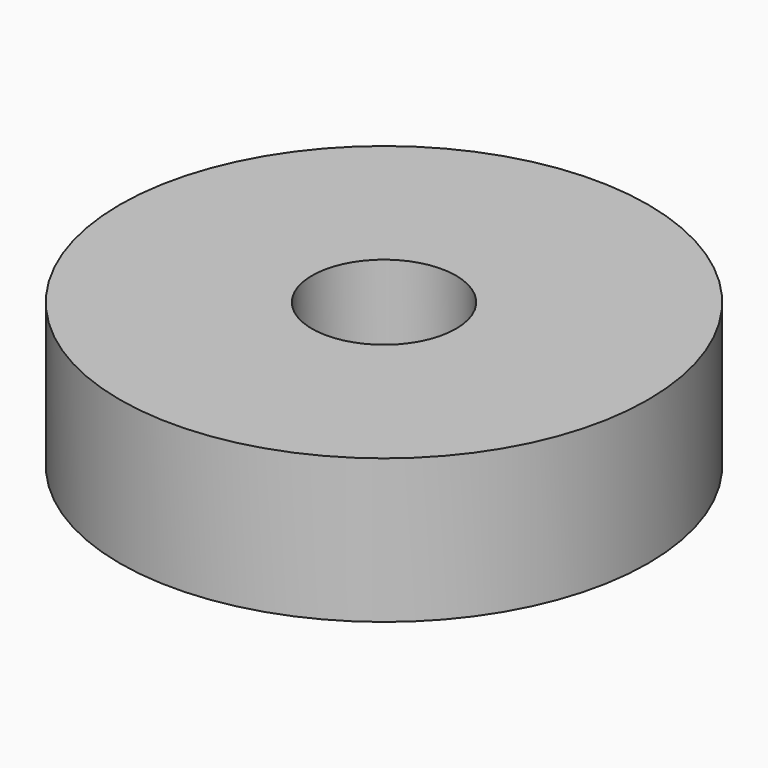
from build123d import *

# Parameters (mm, degrees)
F0_R      = 46.570843
F1_DEPTH  = 25.4
F2_R      = 13.732037
F3_DEPTH  = 25.4
F4_R      = 12.7
F5_DEPTH  = 25.4
F5_FACE_R = 12.7
F6_DEPTH  = 25.4
F7_R      = 12.7
F8_DEPTH  = 25.4


with BuildPart() as f1:
    # F0 (on Top) → F1 (new body)
    with BuildSketch(Plane.XY):
        Circle(F0_R)
    extrude(amount=F1_DEPTH)

    # F2 (on Top) → F3 (join)
    with BuildSketch(Plane.XY):
        Circle(F2_R)
    extrude(amount=F3_DEPTH)

    # F4 (on face) → F5 (join)
    with BuildSketch(Plane.XY.offset(25.4)):
        Circle(F4_R)
    extrude(amount=F5_DEPTH)

    # F5_face (on face) → F6 (cut)
    with BuildSketch(Plane.XY.offset(50.8)):
        Circle(F5_FACE_R)
    extrude(amount=-F6_DEPTH, mode=Mode.SUBTRACT)

    # F7 (on face) → F8 (cut)
    with BuildSketch(Plane.XY.offset(25.4)):
        Circle(F7_R)
    extrude(amount=-F8_DEPTH, mode=Mode.SUBTRACT)


solid = f1.part
